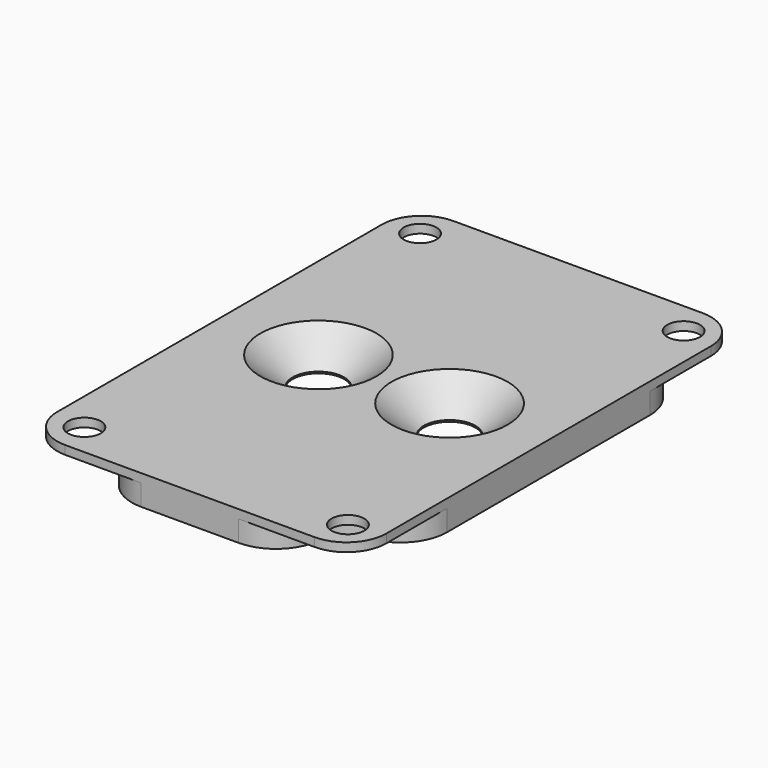
from build123d import *

# Parameters (mm, degrees)
F0_R       = 1.75
F0_R_2     = 2.75
F1_DEPTH   = 3.175
F2_SIZE2   = 3.4511052217
F2_SIZE    = 3
F2_2_SIZE2 = 3.4511052217
F2_2_SIZE  = 3
F3_R       = 4
F4_DEPTH   = 2.25
F5_R       = 5


with BuildPart() as f1:
    # F0 (on Top) → F1 (new body)
    with BuildSketch(Plane.XY):
        with BuildLine():
            ThreePointArc((17.569226806, 21.6505549061), (16.324430626, 24.6557587262), (13.319226806, 25.9005549061))
            Line((13.319226806, 25.9005549061), (-13.319226806, 25.9005549061))
            ThreePointArc((-13.319226806, 25.9005549061), (-16.324430626, 24.6557587262), (-17.569226806, 21.6505549061))
            Line((-17.569226806, 21.6505549061), (-17.569226806, -21.6505549061))
            ThreePointArc((-17.569226806, -21.6505549061), (-16.324430626, -24.6557587262), (-13.319226806, -25.9005549061))
            Line((-13.319226806, -25.9005549061), (13.319226806, -25.9005549061))
            ThreePointArc((13.319226806, -25.9005549061), (16.324430626, -24.6557587262), (17.569226806, -21.6505549061))
            Line((17.569226806, -21.6505549061), (17.569226806, 21.6505549061))
        make_face()
        with Locations((-14.069226806, -22.4005549061)):
            Circle(F0_R, mode=Mode.SUBTRACT)
        with Locations((14.069226806, -22.4005549061)):
            Circle(F0_R, mode=Mode.SUBTRACT)
        with Locations((-7, 0)):
            Circle(F0_R_2, mode=Mode.SUBTRACT)
        with Locations((-14.069226806, 22.4005549061)):
            Circle(F0_R, mode=Mode.SUBTRACT)
        with Locations((7, 0)):
            Circle(F0_R_2, mode=Mode.SUBTRACT)
        with Locations((14.069226806, 22.4005549061)):
            Circle(F0_R, mode=Mode.SUBTRACT)
    extrude(amount=F1_DEPTH)

    # F2
    f2_edges = [f1.edges().sort_by_distance(p)[0] for p in [
        (-9.75, 0, 3.175),
    ]]
    f2_side = f1.faces().sort_by_distance((-9.75, 0, 1.5875))[0]
    chamfer(f2_edges, length=F2_SIZE, length2=F2_SIZE2, reference=f2_side)

    # F2#2
    f2_2_edges = [f1.edges().sort_by_distance(p)[0] for p in [
        (4.25, 0, 3.175),
    ]]
    f2_2_side = f1.faces().sort_by_distance((4.25, 0, 1.5875))[0]
    chamfer(f2_2_edges, length=F2_2_SIZE, length2=F2_2_SIZE2, reference=f2_2_side)

    # F3 (on face) → F4 (cut)
    with BuildSketch(Plane(origin=(0, 0, 0), x_dir=(1, 0, 0), z_dir=(0, 0, -1))):
        with Locations((-14.069226806, 22.4005549061)):
            Circle(F3_R)
        with Locations((14.069226806, 22.4005549061)):
            Circle(F3_R)
        with Locations((-14.069226806, -22.4005549061)):
            Circle(F3_R)
        with Locations((14.069226806, -22.4005549061)):
            Circle(F3_R)
    extrude(amount=-F4_DEPTH, mode=Mode.SUBTRACT)

    # F5
    f5_edges = [f1.edges().sort_by_distance(p)[0] for p in [
        (-12.132735, -25.900555, 1.125),
        (-17.569227, -20.464063, 1.125),
        (12.132735, -25.900555, 1.125),
        (17.569227, -20.464063, 1.125),
        (-17.569227, 20.464063, 1.125),
        (-12.132735, 25.900555, 1.125),
        (12.132735, 25.900555, 1.125),
        (17.569227, 20.464063, 1.125),
    ]]
    fillet(f5_edges, radius=F5_R)


solid = f1.part
